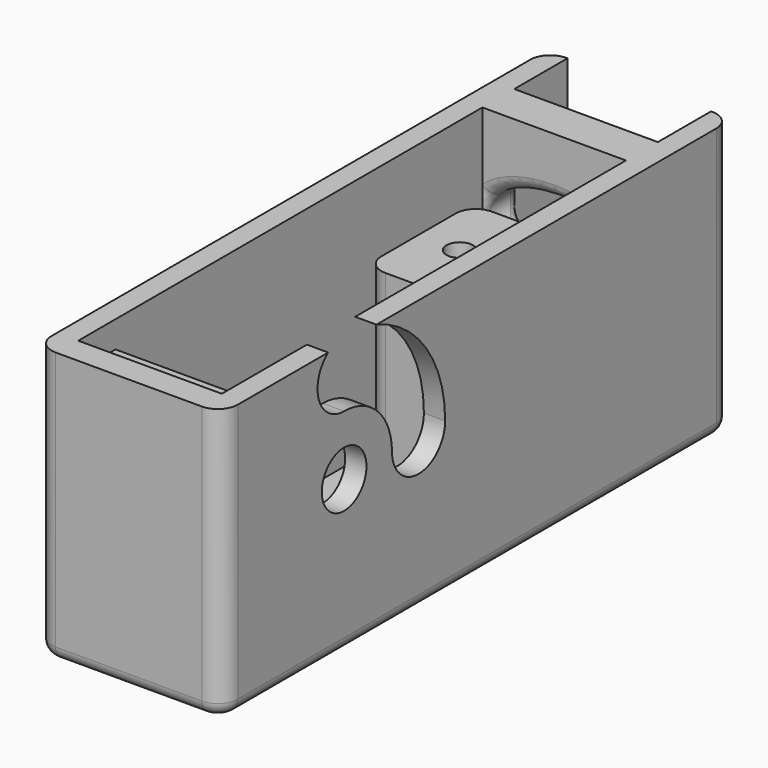
from build123d import *

# Parameters (mm, degrees)
SKETCH020_W     = 14
SKETCH020_H     = 48
PAD008_DEPTH    = 2
SKETCH021_W     = 10.8
SKETCH021_H     = 38
PAD009_DEPTH    = 18.5
SKETCH022_W     = 5
SKETCH022_H     = 5
PAD010_DEPTH    = 1.5
SKETCH023_R     = 1.5
POCKET011_DEPTH = 10
POCKET012_DEPTH = 5
SKETCH025_R     = 2.1
POCKET013_DEPTH = 5
SKETCH039_W     = 10.8
SKETCH039_H     = 3.5
SKETCH039_W_2   = 6
SKETCH039_H_2   = 10
PAD016_DEPTH    = 16.5
SKETCH040_R     = 1
POCKET018_DEPTH = 10
FILLET009_R     = 1.5
FILLET010_R     = 1
FILLET011_R     = 1


with BuildPart() as part:
    # Sketch020 → Pad008 (new body)
    with BuildSketch(Plane.XY):
        with Locations((-17, 24)):
            Rectangle(SKETCH020_W, SKETCH020_H)
    extrude(amount=PAD008_DEPTH)

    # Sketch021 (on Face6 of Pad008) → Pad009 (join)
    with BuildSketch(Plane.XY.offset(2)):
        Polygon((-24, 48), (-22.4, 48), (-22.4, 43), (-11.6, 43), (-11.6, 48), (-10, 48), (-10, 0), (-24, 0), align=None)
        with Locations((-17, 21)):
            Rectangle(SKETCH021_W, SKETCH021_H, mode=Mode.SUBTRACT)
    extrude(amount=PAD009_DEPTH)

    # Sketch022 (on Face14 of Pad009) → Pad010 (join)
    with BuildSketch(Plane(origin=(0, 43, 0), x_dir=(-1, 0, 0), z_dir=(0, 1, 0))):
        with Locations((19.9, 4.5)):
            Rectangle(SKETCH022_W, SKETCH022_H)
    extrude(amount=PAD010_DEPTH)

    # Sketch023 (on Face20 of Pad010) → Pocket011 (cut)
    with BuildSketch(Plane(origin=(0, 44.5, 0), x_dir=(-1, 0, 0), z_dir=(0, 1, 0))):
        with Locations((19.9, 4.5)):
            Circle(SKETCH023_R)
    extrude(amount=-POCKET011_DEPTH, mode=Mode.SUBTRACT)

    # Sketch024 (on Face14 of Pocket011) → Pocket012 (cut)
    with BuildSketch(Plane(origin=(0, 43, 0), x_dir=(-1, 0, 0), z_dir=(0, 1, 0))):
        with BuildLine():
            add(Edge.make_bspline(
                [(22.25, 13.5), (22.25, 18.05153), (14.375, 15.775765), (6.5, 13.5), (14.375, 11.224235), (22.25, 8.94847), (22.25, 13.5)],
                knots=[0, 0, 0, 2.094395, 2.094395, 4.18879, 4.18879, 6.283185, 6.283185, 6.283185], degree=2, weights=[1, 0.5, 1, 0.5, 1, 0.5, 1]))
        make_face()
    extrude(amount=-POCKET012_DEPTH, mode=Mode.SUBTRACT)

    # Sketch025 (on Face7 of Pocket012) → Pocket013 (cut)
    with BuildSketch(Plane.YZ.offset(-10)):
        with Locations((11.5, 11.5)):
            Circle(SKETCH025_R)
        with BuildLine():
            ThreePointArc((16, 11.5), (14.681981, 14.681981), (11.5, 16))
            ThreePointArc((11.5, 21), (9, 18.5), (11.5, 16))
            ThreePointArc((21, 11.5), (18.217514, 18.217514), (11.5, 21))
            ThreePointArc((16, 11.5), (18.5, 9), (21, 11.5))
        make_face()
    extrude(amount=-POCKET013_DEPTH, mode=Mode.SUBTRACT)

    # Sketch039 (on Face27 of Pocket013) → Pad016 (join)
    with BuildSketch(Plane.XY.offset(2)):
        with Locations((-17, 3.75)):
            Rectangle(SKETCH039_W, SKETCH039_H)
        with Locations((-14.6, 28)):
            Rectangle(SKETCH039_W_2, SKETCH039_H_2)
    extrude(amount=PAD016_DEPTH)

    # Sketch040 (on Face29 of Pad016) → Pocket018 (cut)
    with BuildSketch(Plane.XY.offset(18.5)):
        with Locations((-14.5, 28)):
            Circle(SKETCH040_R)
        with Locations((-17, 3.75)):
            Circle(SKETCH040_R)
    extrude(amount=-POCKET018_DEPTH, mode=Mode.SUBTRACT)

    # Fillet009
    fillet009_edges = [part.edges().sort_by_distance(p)[0] for p in [
        (-10, 0, 11.25),
        (-24, 0, 11.25),
        (-10, 48, 11.25),
        (-24, 48, 11.25),
        (-17.6, 33, 10.25),
        (-17.6, 23, 10.25),
    ]]
    fillet(fillet009_edges, radius=FILLET009_R)

    # Fillet010
    fillet010_edges = [part.edges().sort_by_distance(p)[0] for p in [
        (-11.750105, 43, 13.48337),
        (-11.75, 40, 13.5),
    ]]
    fillet(fillet010_edges, radius=FILLET010_R)

    # Fillet011
    fillet011_edges = [part.edges().sort_by_distance(p)[0] for p in [
        (-24, 24, 0),
    ]]
    fillet(fillet011_edges, radius=FILLET011_R)


solid = part.part
